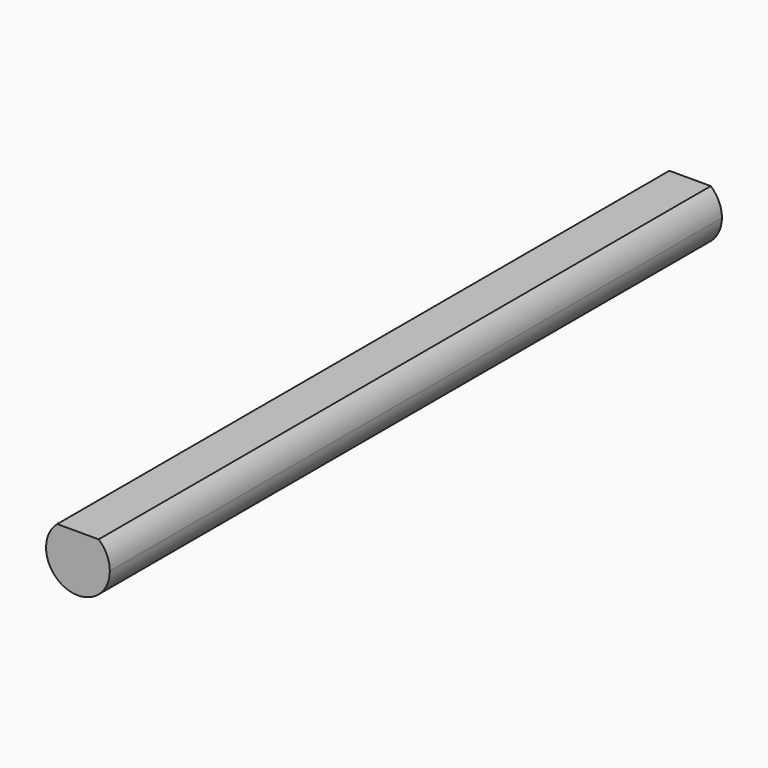
from build123d import *

# Parameters (mm, degrees)
F1_DEPTH = 76.2


with BuildPart() as f1:
    # F0 (on Front) → F1 (new body)
    with BuildSketch(Plane.XZ):
        with BuildLine():
            ThreePointArc((-2.063506, 2.413), (-1.328344, -2.88377), (3.175, 0))
            ThreePointArc((3.175, 0), (2.88377, 1.328344), (2.063506, 2.413))
            Line((2.063506, 2.413), (-2.063506, 2.413))
        make_face()
    extrude(amount=F1_DEPTH)


solid = f1.part
